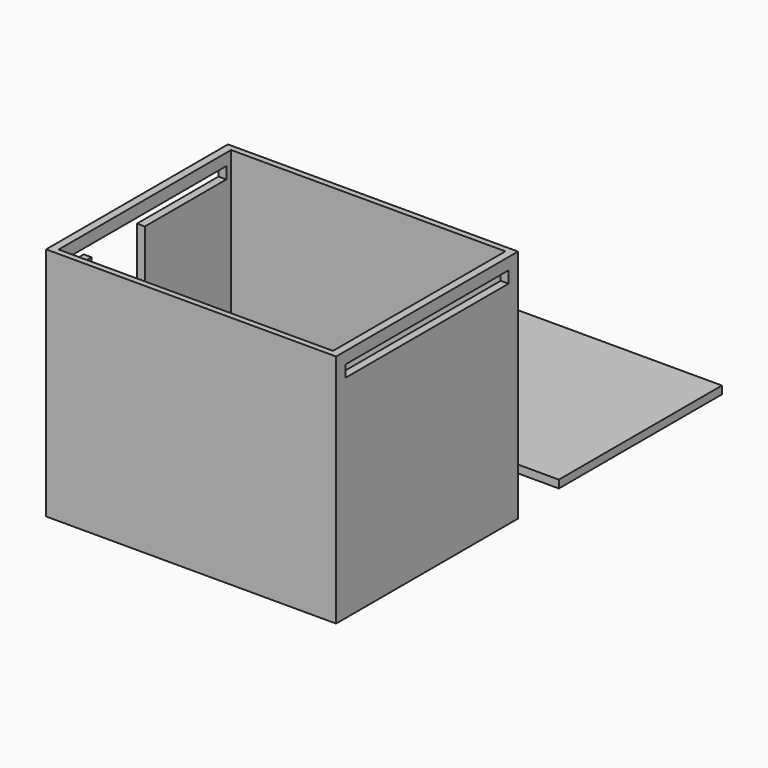
from build123d import *

# Parameters (mm, degrees)
F0_W      = 37
F0_H      = 29
F1_DEPTH  = 60
F2_W      = 35
F2_H      = 27.5
F3_DEPTH  = 55
F5_DEPTH  = 3
F6_W      = 17
F6_H      = 15
F7_DEPTH  = 3
F8_W      = 52
F8_H      = 3
F9_DEPTH  = 76.7
F10_W     = 73
F10_H     = 52
F11_DEPTH = 2


with BuildPart() as f1:
    # F0 (on Top) → F1 (new body)
    with BuildSketch(Plane.XY):
        with Locations((-18.5, 14.5)):
            Rectangle(F0_W, F0_H)
        with Locations((18.5, 14.5)):
            Rectangle(F0_W, F0_H)
        with Locations((-18.5, -14.5)):
            Rectangle(F0_W, F0_H)
        with Locations((18.5, -14.5)):
            Rectangle(F0_W, F0_H)
    extrude(amount=F1_DEPTH)

    # F2 (on face) → F3 (cut)
    with BuildSketch(Plane.XY.offset(60)):
        with Locations((-17.5, 13.75)):
            Rectangle(F2_W, F2_H)
        with Locations((17.5, 13.75)):
            Rectangle(F2_W, F2_H)
        with Locations((-17.5, -13.75)):
            Rectangle(F2_W, F2_H)
        with Locations((17.5, -13.75)):
            Rectangle(F2_W, F2_H)
    extrude(amount=-F3_DEPTH, mode=Mode.SUBTRACT)

    # F4 (on face) → F5 (cut)
    with BuildSketch(Plane(origin=(-37, 0, 0), x_dir=(0, -1, 0), z_dir=(-1, 0, 0))):
        Polygon((-26, 12), (-26, 5), (26, 5), (26, 12), (0, 12), align=None)
        Polygon((-26, 19), (-26, 12), (0, 12), (26, 12), (26, 19), align=None)
    extrude(amount=-F5_DEPTH, mode=Mode.SUBTRACT)

    # F6 (on face) → F7 (cut)
    with BuildSketch(Plane(origin=(-37, 0, 0), x_dir=(0, -1, 0), z_dir=(-1, 0, 0))):
        with Locations((8.5, 46.5)):
            Rectangle(F6_W, F6_H)
    extrude(amount=-F7_DEPTH, mode=Mode.SUBTRACT)

    # F8 (on face) → F9 (cut)
    with BuildSketch(Plane(origin=(-37, 0, 0), x_dir=(0, -1, 0), z_dir=(-1, 0, 0))):
        with Locations((0, 55.5)):
            Rectangle(F8_W, F8_H)
    extrude(amount=-F9_DEPTH, mode=Mode.SUBTRACT)


with BuildPart() as f11:
    # F10 (on Top) → F11 (new body)
    with BuildSketch(Plane.XY):
        with Locations((-1.25665, 70.242931)):
            Rectangle(F10_W, F10_H)
    extrude(amount=F11_DEPTH)


solid = Compound([f1.part, f11.part])
